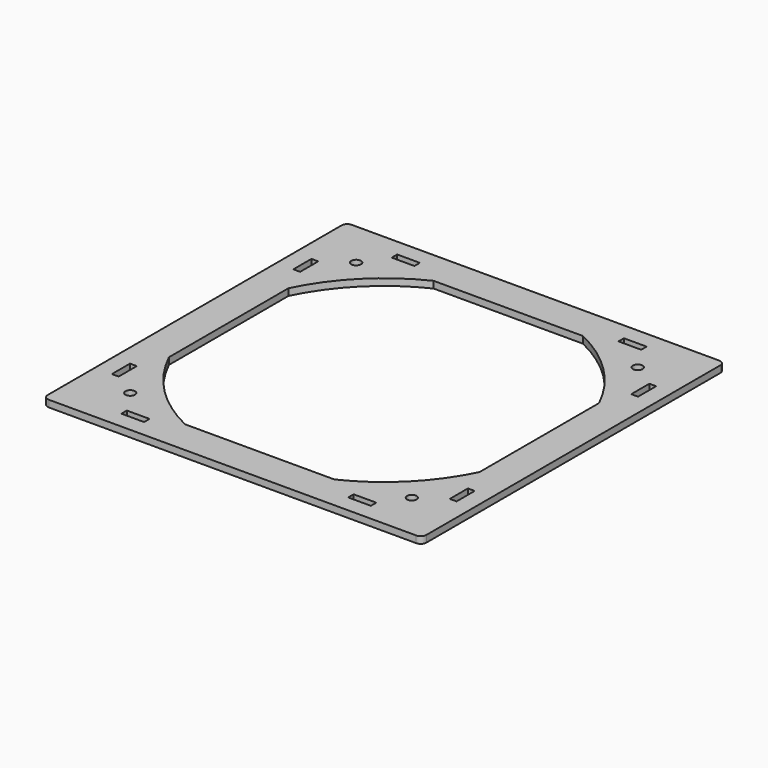
from build123d import *

# Parameters (mm, degrees)
F0_W     = 10
F0_H     = 3
F0_W_2   = 3
F0_H_2   = 10
F0_R     = 2.125
F1_DEPTH = 3


with BuildPart() as f1:
    # F0 (on Top) → F1 (new body)
    with BuildSketch(Plane.XY):
        with BuildLine():
            Line((81, 83.5), (-81, 83.5))
            ThreePointArc((-81, 83.5), (-82.767766953, 82.767766953), (-83.5, 81))
            Line((-83.5, 81), (-83.5, -81))
            ThreePointArc((-83.5, -81), (-82.767766953, -82.767766953), (-81, -83.5))
            Line((-81, -83.5), (81, -83.5))
            ThreePointArc((81, -83.5), (82.767766953, -82.767766953), (83.5, -81))
            Line((83.5, -81), (83.5, 81))
            ThreePointArc((83.5, 81), (82.767766953, 82.767766953), (81, 83.5))
        make_face()
        with Locations((-50, -74.5)):
            Rectangle(F0_W, F0_H, mode=Mode.SUBTRACT)
        with Locations((-74.5, -50)):
            Rectangle(F0_W_2, F0_H_2, mode=Mode.SUBTRACT)
        with Locations((50, -74.5)):
            Rectangle(F0_W, F0_H, mode=Mode.SUBTRACT)
        with Locations((74.5, -50)):
            Rectangle(F0_W_2, F0_H_2, mode=Mode.SUBTRACT)
        with Locations((-74.5, 50)):
            Rectangle(F0_W_2, F0_H_2, mode=Mode.SUBTRACT)
        with Locations((-50, 74.5)):
            Rectangle(F0_W, F0_H, mode=Mode.SUBTRACT)
        with BuildLine():
            ThreePointArc((68.5, 32.9203584428), (74.1012820402, 16.8819430161), (76, 0))
            ThreePointArc((76, 0), (74.1012820402, -16.8819430161), (68.5, -32.9203584428))
            Line((68.5, -32.9203584428), (68.5, -68.5))
            Line((68.5, -68.5), (32.9203584428, -68.5))
            ThreePointArc((32.9203584428, -68.5), (0, -76), (-32.9203584428, -68.5))
            Line((-32.9203584428, -68.5), (-68.5, -68.5))
            Line((-68.5, -68.5), (-68.5, -32.9203584428))
            ThreePointArc((-68.5, -32.9203584428), (-76, 0), (-68.5, 32.9203584428))
            Line((-68.5, 32.9203584428), (-68.5, 68.5))
            Line((-68.5, 68.5), (-32.9203584428, 68.5))
            ThreePointArc((-32.9203584428, 68.5), (0, 76), (32.9203584428, 68.5))
            Line((32.9203584428, 68.5), (68.5, 68.5))
            Line((68.5, 68.5), (68.5, 32.9203584428))
        make_face(mode=Mode.SUBTRACT)
        with Locations((74.5, 50)):
            Rectangle(F0_W_2, F0_H_2, mode=Mode.SUBTRACT)
        with Locations((50, 74.5)):
            Rectangle(F0_W, F0_H, mode=Mode.SUBTRACT)
        with BuildLine():
            ThreePointArc((32.9203584428, 68.5), (53.7401153702, 53.7401153702), (68.5, 32.9203584428))
            Line((68.5, 32.9203584428), (68.5, 68.5))
            Line((68.5, 68.5), (32.9203584428, 68.5))
        make_face()
        with Locations((62.2493354068, 62.046935216)):
            Circle(F0_R, mode=Mode.SUBTRACT)
        with BuildLine():
            Line((-32.9203584428, 68.5), (32.9203584428, 68.5))
            ThreePointArc((32.9203584428, 68.5), (0, 76), (-32.9203584428, 68.5))
        make_face()
        with BuildLine():
            ThreePointArc((-68.5, 32.9203584428), (-53.7401153702, 53.7401153702), (-32.9203584428, 68.5))
            Line((-32.9203584428, 68.5), (-68.5, 68.5))
            Line((-68.5, 68.5), (-68.5, 32.9203584428))
        make_face()
        with Locations((-62.25, 62.4537315522)):
            Circle(F0_R, mode=Mode.SUBTRACT)
        with BuildLine():
            Line((-68.5, -32.9203584428), (-68.5, 32.9203584428))
            ThreePointArc((-68.5, 32.9203584428), (-76, 0), (-68.5, -32.9203584428))
        make_face()
        with BuildLine():
            ThreePointArc((-32.9203584428, -68.5), (0, -76), (32.9203584428, -68.5))
            Line((32.9203584428, -68.5), (-32.9203584428, -68.5))
        make_face()
        with BuildLine():
            Line((68.5, -68.5), (68.5, -32.9203584428))
            ThreePointArc((68.5, -32.9203584428), (53.7401153702, -53.7401153702), (32.9203584428, -68.5))
            Line((32.9203584428, -68.5), (68.5, -68.5))
        make_face()
        with Locations((62.2493354068, -62.453064784)):
            Circle(F0_R, mode=Mode.SUBTRACT)
        with BuildLine():
            ThreePointArc((68.5, -32.9203584428), (74.1012820402, -16.8819430161), (76, 0))
            ThreePointArc((76, 0), (74.1012820402, 16.8819430161), (68.5, 32.9203584428))
            Line((68.5, 32.9203584428), (68.5, -32.9203584428))
        make_face()
        with BuildLine():
            Line((-68.5, -68.5), (-32.9203584428, -68.5))
            ThreePointArc((-32.9203584428, -68.5), (-53.7401153702, -53.7401153702), (-68.5, -32.9203584428))
            Line((-68.5, -32.9203584428), (-68.5, -68.5))
        make_face()
        with Locations((-62.25, -62.0462684478)):
            Circle(F0_R, mode=Mode.SUBTRACT)
    extrude(amount=F1_DEPTH)


solid = f1.part
